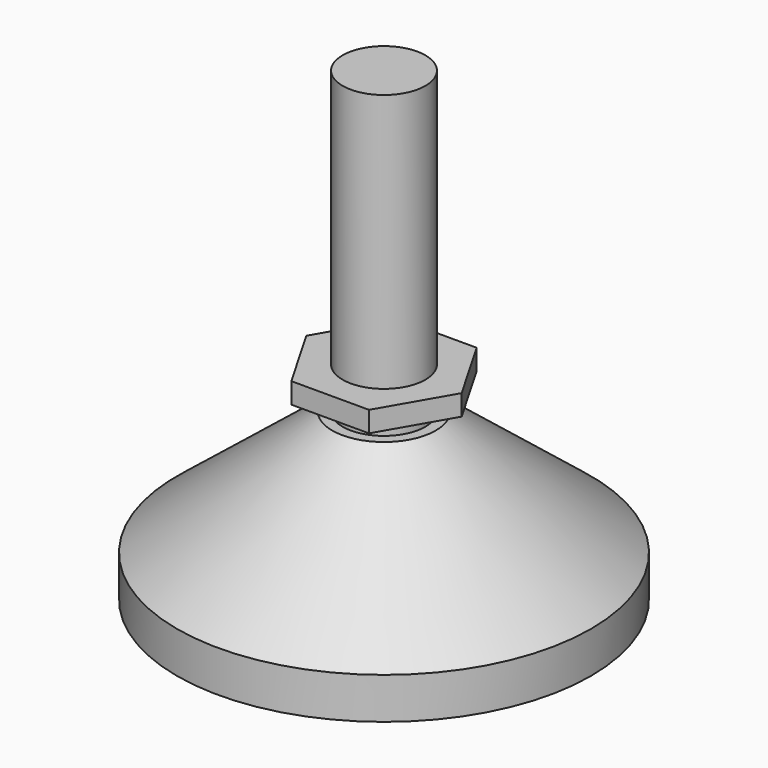
from build123d import *

# Parameters (mm, degrees)
PAD_DEPTH    = 2
SKETCH003_R  = 4
PAD001_DEPTH = 25


with BuildPart() as part:
    # Sketch → Revolution (revolve)
    with BuildSketch(Plane.XZ):
        Polygon((0, 0), (20, 0), (20, 4), (5, 16), (4, 16), (4, 18), (0, 18), align=None)
    revolve(axis=Axis((0, 0, 0), (0, 0, 1)))

    # Sketch002 (on DatumPlane) → Pad (new body)
    with BuildSketch(Plane.XY.offset(20)):
        Polygon((-3.752777, 6.5), (-7.505553, 0), (-3.752777, -6.5), (3.752777, -6.5), (7.505553, 0), (3.752777, 6.5), align=None)
    extrude(amount=-PAD_DEPTH)

    # Sketch003 (on DatumPlane) → Pad001 (join)
    with BuildSketch(Plane.XY.offset(20)):
        Circle(SKETCH003_R)
    extrude(amount=PAD001_DEPTH)


solid = part.part
